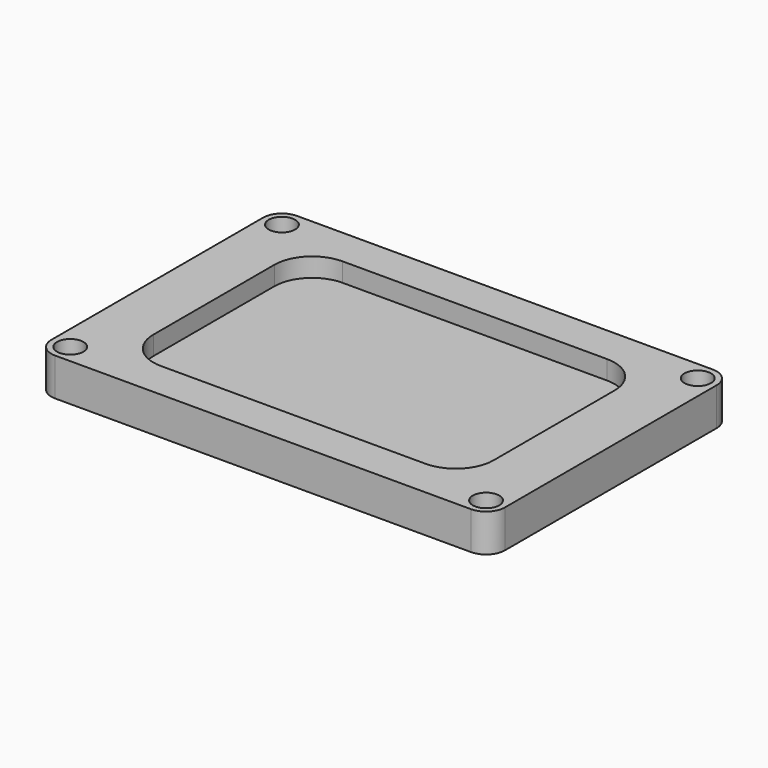
from build123d import *

# Parameters (mm, degrees)
F0_W     = 120
F0_H     = 80
F1_DEPTH = 10
F2_R     = 5
F3_W     = 90
F3_H     = 60
F4_DEPTH = 5
F5_R     = 10
F7_D     = 7


with BuildPart() as f1:
    # F0 (on Top) → F1 (new body)
    with BuildSketch(Plane.XY):
        Rectangle(F0_W, F0_H)
    extrude(amount=F1_DEPTH)

    # F2
    f2_edges = [f1.edges().sort_by_distance(p)[0] for p in [
        (60, -40, 5),
        (60, 40, 5),
        (-60, -40, 5),
        (-60, 40, 5),
    ]]
    fillet(f2_edges, radius=F2_R)

    # F3 (on face) → F4 (cut)
    with BuildSketch(Plane.XY.offset(10)):
        Rectangle(F3_W, F3_H)
    extrude(amount=-F4_DEPTH, mode=Mode.SUBTRACT)

    # F5
    f5_edges = [f1.edges().sort_by_distance(p)[0] for p in [
        (-45, 30, 7.5),
        (45, 30, 7.5),
        (45, -30, 7.5),
        (-45, -30, 7.5),
    ]]
    fillet(f5_edges, radius=F5_R)

    # F7 (through all)
    with Locations(Plane.XY.offset(10)):
        with Locations((-55, -35), (-55, 35), (55, -35), (55, 35)):
            Hole(F7_D / 2)


solid = f1.part
